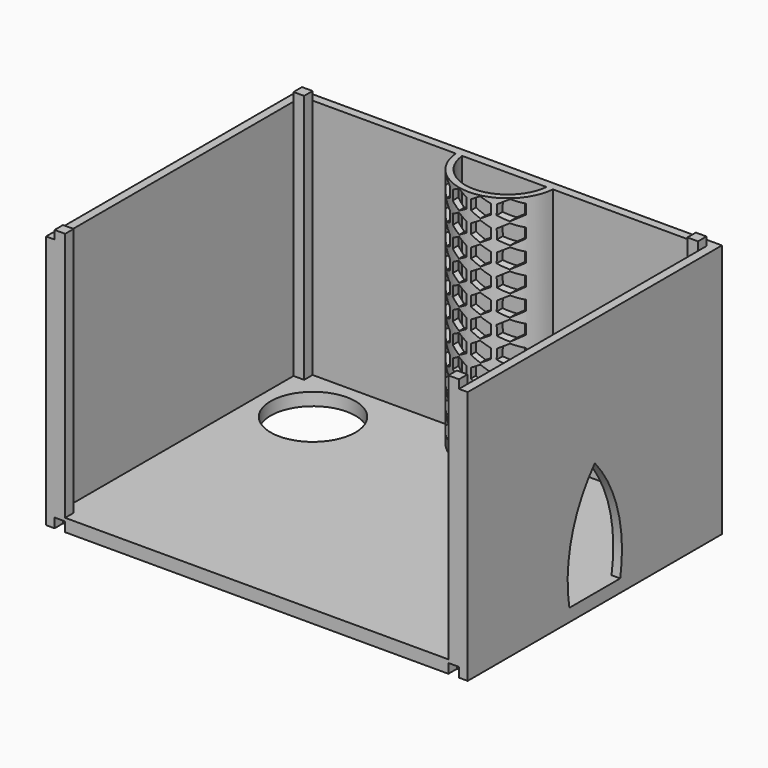
from build123d import *

# Parameters (mm, degrees)
F1_R      = 20
F2_DEPTH  = 6
F0_W      = 5
F0_H      = 5
F3_DEPTH  = 120
F4_DEPTH  = 124
F5_DEPTH  = 124
F7_DEPTH  = 25
F8_DEPTH  = 4.5
F9_DEPTH  = 4.5
F11_DEPTH = 62.2


with BuildPart() as f2:
    # F1 (on Top) → F2 (new body)
    with BuildSketch(Plane.XY):
        with BuildLine():
            Line((-20, 75), (-99.5, 75))
            Line((-99.5, 75), (-99.5, -75))
            Line((-99.5, -75), (99.5, -75))
            Line((99.5, -75), (99.5, 75))
            Line((99.5, 75), (20, 75))
            ThreePointArc((20, 75), (0, 55), (-20, 75))
        make_face()
        with Locations((-69.5, 45)):
            Circle(F1_R, mode=Mode.SUBTRACT)
    extrude(amount=F2_DEPTH)

    # F0 (on Top) → F3 (join)
    with BuildSketch(Plane.XY):
        Polygon((99.5, 75), (-99.5, 75), (-99.5, -75), (-95.5, -75), (-95.5, -70), (-95.5, 66), (-95.5, 71), (-90.5, 71), (-22.912878, 71), (-19.899749, 71), (0, 71), (19.899749, 71), (22.912878, 71), (90.394951, 71), (95.394951, 71), (95.394951, 66), (95.394951, -70), (95.394951, -75), (99.5, -75), align=None)
        with Locations((-93, -72.5)):
            Rectangle(F0_W, F0_H)
        with Locations((92.894951, -72.5)):
            Rectangle(F0_W, F0_H)
        with Locations((-93, 68.5)):
            Rectangle(F0_W, F0_H)
        with Locations((92.894951, 68.5)):
            Rectangle(F0_W, F0_H)
        with BuildLine():
            Line((-19.899749, 71), (-22.912878, 71))
            ThreePointArc((-22.912878, 71), (0, 50), (22.912878, 71))
            Line((22.912878, 71), (19.899749, 71))
            ThreePointArc((19.899749, 71), (0, 53), (-19.899749, 71))
        make_face()
    extrude(amount=F3_DEPTH)

    # F0 (on Top) → F4 (join)
    with BuildSketch(Plane.XY):
        with Locations((-93, 68.5)):
            Rectangle(F0_W, F0_H)
    extrude(amount=F4_DEPTH)

    # F0 (on Top) → F5 (join)
    with BuildSketch(Plane.XY):
        with Locations((92.894951, 68.5)):
            Rectangle(F0_W, F0_H)
        with Locations((92.894951, -72.5)):
            Rectangle(F0_W, F0_H)
        with Locations((-93, -72.5)):
            Rectangle(F0_W, F0_H)
    extrude(amount=F5_DEPTH)

    # F6 (on face) → F7 (cut)
    with BuildSketch(Plane.YZ.offset(99.5)):
        with BuildLine():
            ThreePointArc((0, 60), (-13.676253, 34.715626), (-15, 6))
            Line((-15, 6), (0, 6))
            Line((0, 6), (15, 6))
            ThreePointArc((15, 6), (13.676253, 34.715626), (0, 60))
        make_face()
    extrude(amount=-F7_DEPTH, mode=Mode.SUBTRACT)

    # F0 (on Top) → F8 (cut)
    with BuildSketch(Plane.XY):
        with Locations((-93, 68.5)):
            Rectangle(F0_W, F0_H)
        with Locations((92.894951, 68.5)):
            Rectangle(F0_W, F0_H)
        with Locations((-93, -72.5)):
            Rectangle(F0_W, F0_H)
        with Locations((92.894951, -72.5)):
            Rectangle(F0_W, F0_H)
    extrude(amount=F8_DEPTH, mode=Mode.SUBTRACT)

    # F0 (on Top) → F9 (cut)
    with BuildSketch(Plane.XY):
        with Locations((-93, -72.5)):
            Rectangle(F0_W, F0_H)
    extrude(amount=F9_DEPTH, mode=Mode.SUBTRACT)

    # F10 (on Front) → F11 (cut)
    with BuildSketch(Plane.XZ):
        Polygon((-15.052389, 119.634528), (-19.025937, 117.279905), (-18.973548, 112.6614), (-14.947611, 110.397518), (-10.974063, 112.752141), (-11.026452, 117.370646), align=None)
        Polygon((-1.026452, 112.6614), (-0.974063, 117.279905), (-4.947611, 119.634528), (-8.973548, 117.370646), (-9.025937, 112.752141), (-5.052389, 110.397518), align=None)
        Polygon((0.974063, 117.279905), (1.026452, 112.6614), (5.052389, 110.397518), (9.025937, 112.752141), (8.973548, 117.370646), (4.947611, 119.634528), align=None)
        Polygon((19.025937, 117.279905), (15.052389, 119.634528), (11.026452, 117.370646), (10.974063, 112.752141), (14.947611, 110.397518), (18.973548, 112.6614), align=None)
        Polygon((19.025937, 102.752141), (18.973548, 107.370646), (14.947611, 109.634528), (10.974063, 107.279905), (11.026452, 102.6614), (15.052389, 100.397518), align=None)
        Polygon((8.973548, 102.6614), (9.025937, 107.279905), (5.052389, 109.634528), (1.026452, 107.370646), (0.974063, 102.752141), (4.947611, 100.397518), align=None)
        Polygon((-9.025937, 107.279905), (-8.973548, 102.6614), (-4.947611, 100.397518), (-0.974063, 102.752141), (-1.026452, 107.370646), (-5.052389, 109.634528), align=None)
        Polygon((-11.026452, 102.6614), (-10.974063, 107.279905), (-14.947611, 109.634528), (-18.973548, 107.370646), (-19.025937, 102.752141), (-15.052389, 100.397518), align=None)
        Polygon((19.025937, 97.279905), (15.052389, 99.634528), (11.026452, 97.370646), (10.974063, 92.752141), (14.947611, 90.397518), (18.973548, 92.6614), align=None)
        Polygon((9.025937, 92.752141), (8.973548, 97.370646), (4.947611, 99.634528), (0.974063, 97.279905), (1.026452, 92.6614), (5.052389, 90.397518), align=None)
        Polygon((-5.052389, 90.397518), (-1.026452, 92.6614), (-0.974063, 97.279905), (-4.947611, 99.634528), (-8.973548, 97.370646), (-9.025937, 92.752141), align=None)
        Polygon((-10.974063, 92.752141), (-11.026452, 97.370646), (-15.052389, 99.634528), (-19.025937, 97.279905), (-18.973548, 92.6614), (-14.947611, 90.397518), align=None)
        Polygon((19.025937, 82.752141), (18.973548, 87.370646), (14.947611, 89.634528), (10.974063, 87.279905), (11.026452, 82.6614), (15.052389, 80.397518), align=None)
        Polygon((4.947611, 80.397518), (8.973548, 82.6614), (9.025937, 87.279905), (5.052389, 89.634528), (1.026452, 87.370646), (0.974063, 82.752141), align=None)
        Polygon((-0.974063, 82.752141), (-1.026452, 87.370646), (-5.052389, 89.634528), (-9.025937, 87.279905), (-8.973548, 82.6614), (-4.947611, 80.397518), align=None)
        Polygon((-15.052389, 80.397518), (-11.026452, 82.6614), (-10.974063, 87.279905), (-14.947611, 89.634528), (-18.973548, 87.370646), (-19.025937, 82.752141), align=None)
        Polygon((-0.974063, 77.279905), (-4.947611, 79.634528), (-8.973548, 77.370646), (-9.025937, 72.752141), (-5.052389, 70.397518), (-1.026452, 72.6614), align=None)
        Polygon((0.974063, 77.279905), (1.026452, 72.6614), (5.052389, 70.397518), (9.025937, 72.752141), (8.973548, 77.370646), (4.947611, 79.634528), align=None)
        Polygon((15.052389, 79.634528), (11.026452, 77.370646), (10.974063, 72.752141), (14.947611, 70.397518), (18.973548, 72.6614), (19.025937, 77.279905), align=None)
        Polygon((-10.974063, 72.752141), (-11.026452, 77.370646), (-15.052389, 79.634528), (-19.025937, 77.279905), (-18.973548, 72.6614), (-14.947611, 70.397518), align=None)
        Polygon((14.947611, 69.634528), (10.974063, 67.279905), (11.026452, 62.6614), (15.052389, 60.397518), (19.025937, 62.752141), (18.973548, 67.370646), align=None)
        Polygon((4.947611, 60.397518), (8.973548, 62.6614), (9.025937, 67.279905), (5.052389, 69.634528), (1.026452, 67.370646), (0.974063, 62.752141), align=None)
        Polygon((-0.974063, 62.752141), (-1.026452, 67.370646), (-5.052389, 69.634528), (-9.025937, 67.279905), (-8.973548, 62.6614), (-4.947611, 60.397518), align=None)
        Polygon((-15.052389, 60.397518), (-11.026452, 62.6614), (-10.974063, 67.279905), (-14.947611, 69.634528), (-18.973548, 67.370646), (-19.025937, 62.752141), align=None)
        Polygon((19.025937, 57.279905), (15.052389, 59.634528), (11.026452, 57.370646), (10.974063, 52.752141), (14.947611, 50.397518), (18.973548, 52.6614), align=None)
        Polygon((9.025937, 52.752141), (8.973548, 57.370646), (4.947611, 59.634528), (0.974063, 57.279905), (1.026452, 52.6614), (5.052389, 50.397518), align=None)
        Polygon((-5.052389, 50.397518), (-1.026452, 52.6614), (-0.974063, 57.279905), (-4.947611, 59.634528), (-8.973548, 57.370646), (-9.025937, 52.752141), align=None)
        Polygon((-10.974063, 52.752141), (-11.026452, 57.370646), (-15.052389, 59.634528), (-19.025937, 57.279905), (-18.973548, 52.6614), (-14.947611, 50.397518), align=None)
        Polygon((10.974063, 47.279905), (11.026452, 42.6614), (15.052389, 40.397518), (19.025937, 42.752141), (18.973548, 47.370646), (14.947611, 49.634528), align=None)
        Polygon((4.947611, 40.397518), (8.973548, 42.6614), (9.025937, 47.279905), (5.052389, 49.634528), (1.026452, 47.370646), (0.974063, 42.752141), align=None)
        Polygon((-0.974063, 42.752141), (-1.026452, 47.370646), (-5.052389, 49.634528), (-9.025937, 47.279905), (-8.973548, 42.6614), (-4.947611, 40.397518), align=None)
        Polygon((-15.052389, 40.397518), (-11.026452, 42.6614), (-10.974063, 47.279905), (-14.947611, 49.634528), (-18.973548, 47.370646), (-19.025937, 42.752141), align=None)
        Polygon((18.973548, 32.6614), (19.025937, 37.279905), (15.052389, 39.634528), (11.026452, 37.370646), (10.974063, 32.752141), (14.947611, 30.397518), align=None)
        Polygon((9.025937, 32.752141), (8.973548, 37.370646), (4.947611, 39.634528), (0.974063, 37.279905), (1.026452, 32.6614), (5.052389, 30.397518), align=None)
        Polygon((-5.052389, 30.397518), (-1.026452, 32.6614), (-0.974063, 37.279905), (-4.947611, 39.634528), (-8.973548, 37.370646), (-9.025937, 32.752141), align=None)
        Polygon((-10.974063, 32.752141), (-11.026452, 37.370646), (-15.052389, 39.634528), (-19.025937, 37.279905), (-18.973548, 32.6614), (-14.947611, 30.397518), align=None)
        Polygon((14.947611, 29.634528), (10.974063, 27.279905), (11.026452, 22.6614), (15.052389, 20.397518), (19.025937, 22.752141), (18.973548, 27.370646), align=None)
        Polygon((4.947611, 20.397518), (8.973548, 22.6614), (9.025937, 27.279905), (5.052389, 29.634528), (1.026452, 27.370646), (0.974063, 22.752141), align=None)
        Polygon((-0.974063, 22.752141), (-1.026452, 27.370646), (-5.052389, 29.634528), (-9.025937, 27.279905), (-8.973548, 22.6614), (-4.947611, 20.397518), align=None)
        Polygon((-15.052389, 20.397518), (-11.026452, 22.6614), (-10.974063, 27.279905), (-14.947611, 29.634528), (-18.973548, 27.370646), (-19.025937, 22.752141), align=None)
        Polygon((18.973548, 12.6614), (19.025937, 17.279905), (15.052389, 19.634528), (11.026452, 17.370646), (10.974063, 12.752141), (14.947611, 10.397518), align=None)
        Polygon((9.025937, 12.752141), (8.973548, 17.370646), (4.947611, 19.634528), (0.974063, 17.279905), (1.026452, 12.6614), (5.052389, 10.397518), align=None)
        Polygon((-8.973548, 17.370646), (-9.025937, 12.752141), (-5.052389, 10.397518), (-1.026452, 12.6614), (-0.974063, 17.279905), (-4.947611, 19.634528), align=None)
        Polygon((-10.974063, 12.752141), (-11.026452, 17.370646), (-15.052389, 19.634528), (-19.025937, 17.279905), (-18.973548, 12.6614), (-14.947611, 10.397518), align=None)
    extrude(amount=-F11_DEPTH, mode=Mode.SUBTRACT)


solid = f2.part
